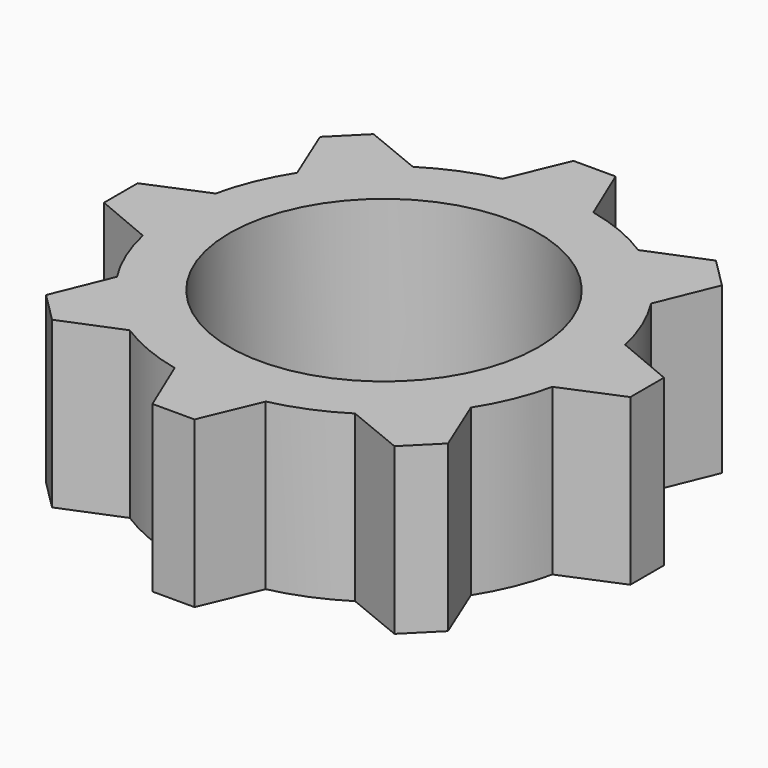
from build123d import *

# Parameters (mm, degrees)
F0_R     = 48.370805
F1_DEPTH = 38.1
F3_DEPTH = 38.1
F4_R     = 35.618168
F5_DEPTH = 66.294


with BuildPart() as f1:
    # F0 (on Top) → F1 (new body)
    with BuildSketch(Plane.XY):
        Circle(F0_R)
    extrude(amount=F1_DEPTH)

    # F2 (on Top) → F3 (join)
    with BuildSketch(Plane.XY):
        Polygon((4.851332, 60.679473), (-4.851332, 60.679473), (-12.616223, 42.146083), (12.616223, 42.146083), align=None)
        Polygon((46.337277, 39.476457), (39.476457, 46.337277), (20.880764, 38.722798), (38.722798, 20.880764), align=None)
        Polygon((60.679473, 4.851332), (42.146083, 12.616223), (42.146083, -12.616223), (60.679473, -4.851332), align=None)
        Polygon((39.476457, -46.337277), (46.337277, -39.476457), (38.722798, -20.880764), (20.880764, -38.722798), align=None)
        Polygon((-4.851332, -60.679473), (4.851332, -60.679473), (12.616223, -42.146083), (-12.616223, -42.146083), align=None)
        Polygon((-46.337277, -39.476457), (-39.476457, -46.337277), (-20.880764, -38.722798), (-38.722798, -20.880764), align=None)
        Polygon((-60.679473, 4.851332), (-60.679473, -4.851332), (-42.146083, -12.616223), (-42.146083, 12.616223), align=None)
        Polygon((-39.476457, 46.337277), (-46.337277, 39.476457), (-38.722798, 20.880764), (-20.880764, 38.722798), align=None)
    extrude(amount=F3_DEPTH)

    # F4 (on face) → F5 (cut)
    with BuildSketch(Plane(origin=(0, 0, 0), x_dir=(1, 0, 0), z_dir=(0, 0, -1))):
        Circle(F4_R)
    extrude(amount=-F5_DEPTH, mode=Mode.SUBTRACT)


solid = f1.part
